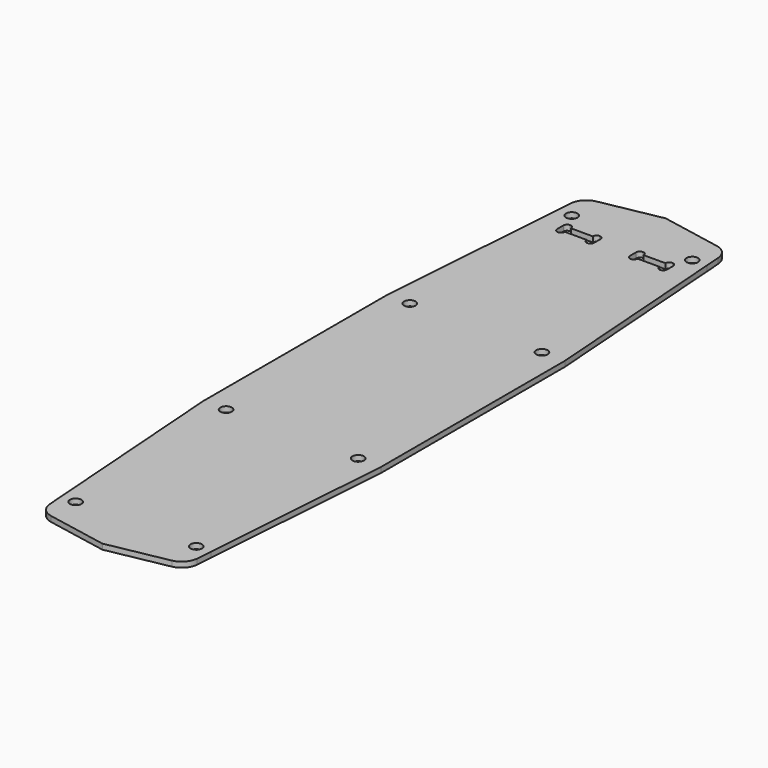
from build123d import *

# Parameters (mm, degrees)
F0_R     = 1.5
F1_DEPTH = 1.4


with BuildPart() as f1:
    # F0 (on Top) → F1 (new body)
    with BuildSketch(Plane.XY):
        with BuildLine():
            Line((-19.255053, 85.041668), (-19.55, 80.977936))
            Line((-19.55, 80.977936), (-23.25, 30))
            Line((-23.25, 30), (-23.25, 0))
            Line((-23.25, 0), (-23.25, -30))
            Line((-23.25, -30), (-19.55, -80.977936))
            Line((-19.55, -80.977936), (-19.255053, -85.041668))
            ThreePointArc((-19.255053, -85.041668), (-18.171235, -87.605254), (-15.75, -88.977936))
            Line((-15.75, -88.977936), (0, -91.977936))
            Line((0, -91.977936), (15.75, -88.977936))
            ThreePointArc((15.75, -88.977936), (18.171235, -87.605254), (19.255053, -85.041668))
            Line((19.255053, -85.041668), (19.55, -80.977936))
            Line((19.55, -80.977936), (23.25, -30))
            Line((23.25, -30), (23.25, 0))
            Line((23.25, 0), (23.25, 30))
            Line((23.25, 30), (19.55, 80.977936))
            Line((19.55, 80.977936), (19.255053, 85.041668))
            ThreePointArc((19.255053, 85.041668), (18.171235, 87.605254), (15.75, 88.977936))
            Line((15.75, 88.977936), (0, 91.977936))
            Line((0, 91.977936), (-15.75, 88.977936))
            ThreePointArc((-15.75, 88.977936), (-18.171235, 87.605254), (-19.255053, 85.041668))
        make_face()
        with Locations((-15.75, -80.977936)):
            Circle(F0_R, mode=Mode.SUBTRACT)
        with Locations((-17.25, -30)):
            Circle(F0_R, mode=Mode.SUBTRACT)
        with Locations((15.75, -80.977936)):
            Circle(F0_R, mode=Mode.SUBTRACT)
        with Locations((17.25, -30)):
            Circle(F0_R, mode=Mode.SUBTRACT)
        with Locations((-17.25, 30)):
            Circle(F0_R, mode=Mode.SUBTRACT)
        with Locations((-15.75, 80.977936)):
            Circle(F0_R, mode=Mode.SUBTRACT)
        with BuildLine():
            Line((-14.35, 74.477936), (-14.35, 75.477936))
            Line((-14.35, 75.477936), (-14.35, 76.477936))
            ThreePointArc((-14.35, 76.477936), (-14.057107, 77.185043), (-13.35, 77.477936))
            ThreePointArc((-13.35, 77.477936), (-12.642893, 77.185043), (-12.35, 76.477936))
            Line((-12.35, 76.477936), (-9.5, 76.477936))
            Line((-9.5, 76.477936), (-6.65, 76.477936))
            ThreePointArc((-6.65, 76.477936), (-6.357107, 77.185043), (-5.65, 77.477936))
            ThreePointArc((-5.65, 77.477936), (-4.942893, 77.185043), (-4.65, 76.477936))
            Line((-4.65, 76.477936), (-4.65, 75.477936))
            Line((-4.65, 75.477936), (-4.65, 74.477936))
            ThreePointArc((-4.65, 74.477936), (-4.942893, 73.77083), (-5.65, 73.477936))
            ThreePointArc((-5.65, 73.477936), (-6.357107, 73.77083), (-6.65, 74.477936))
            Line((-6.65, 74.477936), (-9.5, 74.477936))
            Line((-9.5, 74.477936), (-12.35, 74.477936))
            ThreePointArc((-12.35, 74.477936), (-12.642893, 73.77083), (-13.35, 73.477936))
            ThreePointArc((-13.35, 73.477936), (-14.057107, 73.77083), (-14.35, 74.477936))
        make_face(mode=Mode.SUBTRACT)
        with Locations((17.25, 30)):
            Circle(F0_R, mode=Mode.SUBTRACT)
        with BuildLine():
            ThreePointArc((13.35, 77.477936), (14.057107, 77.185043), (14.35, 76.477936))
            Line((14.35, 76.477936), (14.35, 75.477936))
            Line((14.35, 75.477936), (14.35, 74.477936))
            ThreePointArc((14.35, 74.477936), (14.057107, 73.77083), (13.35, 73.477936))
            ThreePointArc((13.35, 73.477936), (12.642893, 73.77083), (12.35, 74.477936))
            Line((12.35, 74.477936), (9.5, 74.477936))
            Line((9.5, 74.477936), (6.65, 74.477936))
            ThreePointArc((6.65, 74.477936), (6.357107, 73.77083), (5.65, 73.477936))
            ThreePointArc((5.65, 73.477936), (4.942893, 73.77083), (4.65, 74.477936))
            Line((4.65, 74.477936), (4.65, 75.477936))
            Line((4.65, 75.477936), (4.65, 76.477936))
            ThreePointArc((4.65, 76.477936), (4.942893, 77.185043), (5.65, 77.477936))
            ThreePointArc((5.65, 77.477936), (6.357107, 77.185043), (6.65, 76.477936))
            Line((6.65, 76.477936), (9.5, 76.477936))
            Line((9.5, 76.477936), (12.35, 76.477936))
            ThreePointArc((12.35, 76.477936), (12.642893, 77.185043), (13.35, 77.477936))
        make_face(mode=Mode.SUBTRACT)
        with Locations((15.75, 80.977936)):
            Circle(F0_R, mode=Mode.SUBTRACT)
    extrude(amount=F1_DEPTH)


solid = f1.part
